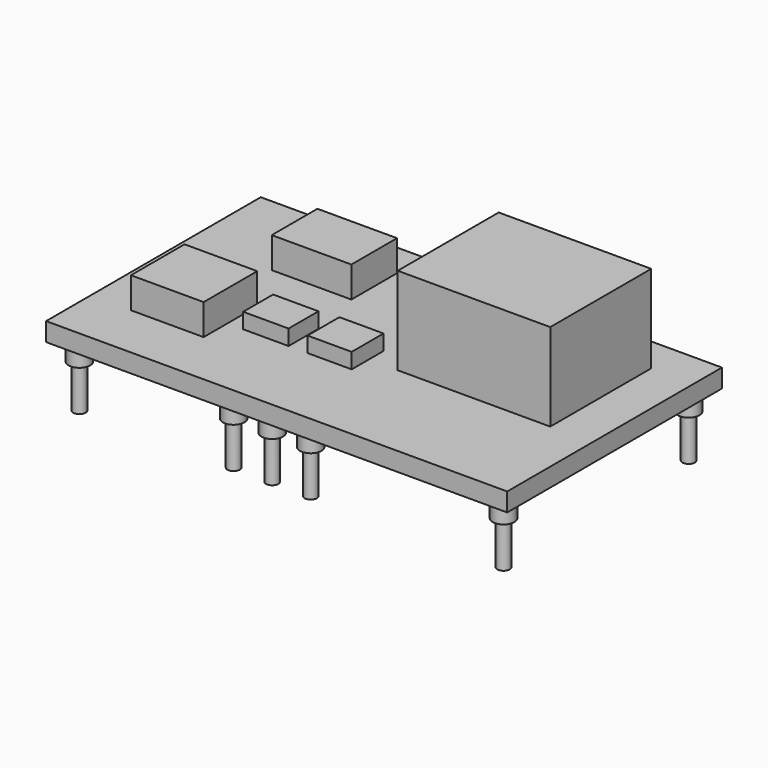
from build123d import *

# Parameters (mm, degrees)
F0_W      = 37.973
F0_H      = 22.098
F1_DEPTH  = 1.524
F2_W      = 12.561312
F2_H      = 10.393114
F3_DEPTH  = 7.2136
F4_W      = 6.554271
F4_H      = 4.69848
F4_W_2    = 5.987631
F4_H_2    = 5.516189
F5_DEPTH  = 2.54
F6_W      = 3.734964
F6_H      = 3.07779
F6_W_2    = 3.6331
F6_H_2    = 3.278057
F7_DEPTH  = 1.27
F8_W      = 5.773047
F8_H      = 4.794508
F9_DEPTH  = 1.27
F10_R     = 0.889
F11_DEPTH = 1.524
F12_R     = 0.508
F12_R_2   = 0.508001
F13_DEPTH = 3.556


with BuildPart() as f1:
    # F0 (on Top) → F1 (new body)
    with BuildSketch(Plane.XY):
        Rectangle(F0_W, F0_H)
    extrude(amount=F1_DEPTH)


with BuildPart() as f3:
    # F2 (on face) → F3 (new body)
    with BuildSketch(Plane.XY.offset(1.524)):
        with Locations((9.225395, 2.927721)):
            Rectangle(F2_W, F2_H)
    extrude(amount=F3_DEPTH)


with BuildPart() as f5:
    # F4 (on face) → F5 (new body)
    with BuildSketch(Plane.XY.offset(1.524)):
        with Locations((-8.809889, 5.905727)):
            Rectangle(F4_W, F4_H)
        with Locations((-12.674262, -3.706126)):
            Rectangle(F4_W_2, F4_H_2)
    extrude(amount=F5_DEPTH)


with BuildPart() as f7:
    # F6 (on face) → F7 (new body)
    with BuildSketch(Plane.XY.offset(1.524)):
        with Locations((-6.509353, -2.483502)):
            Rectangle(F6_W, F6_H)
        with Locations((-1.259806, -2.383369)):
            Rectangle(F6_W_2, F6_H_2)
    extrude(amount=F7_DEPTH)


with BuildPart() as f9:
    # F8 (on face) → F9 (new body)
    with BuildSketch(Plane(origin=(0, 0, 0), x_dir=(1, 0, 0), z_dir=(0, 0, -1))):
        with Locations((9.160016, 0)):
            Rectangle(F8_W, F8_H)
    extrude(amount=F9_DEPTH)


with BuildPart() as f11:
    # F10 (on face) → F11 (new body)
    with BuildSketch(Plane(origin=(0, 0, 0), x_dir=(1, 0, 0), z_dir=(0, 0, -1))):
        with Locations((17.4625, -9.525)):
            Circle(F10_R)
        with Locations((-17.4625, -9.525)):
            Circle(F10_R)
        with Locations((-17.4625, 9.525)):
            Circle(F10_R)
        with Locations((-4.7625, 9.525)):
            Circle(F10_R)
        with Locations((-1.5875, 9.525)):
            Circle(F10_R)
        with Locations((1.5875, 9.525)):
            Circle(F10_R)
        with Locations((17.4625, 9.525)):
            Circle(F10_R)
    extrude(amount=F11_DEPTH)


with BuildPart() as f13:
    # F12 (on face) → F13 (new body)
    with BuildSketch(Plane(origin=(0, 0, -1.524), x_dir=(1, 0, 0), z_dir=(0, 0, -1))):
        with Locations((-17.4625, -9.525)):
            Circle(F12_R)
        with Locations((-17.4625, 9.525)):
            Circle(F12_R)
        with Locations((-4.7625, 9.525)):
            Circle(F12_R_2)
        with Locations((-1.5875, 9.525)):
            Circle(F12_R)
        with Locations((1.5875, 9.525)):
            Circle(F12_R)
        with Locations((17.4625, 9.525)):
            Circle(F12_R)
        with Locations((17.4625, -9.525)):
            Circle(F12_R)
    extrude(amount=F13_DEPTH)


solid = Compound([f1.part, f3.part, f5.part, f7.part, f9.part, f11.part, f13.part])
